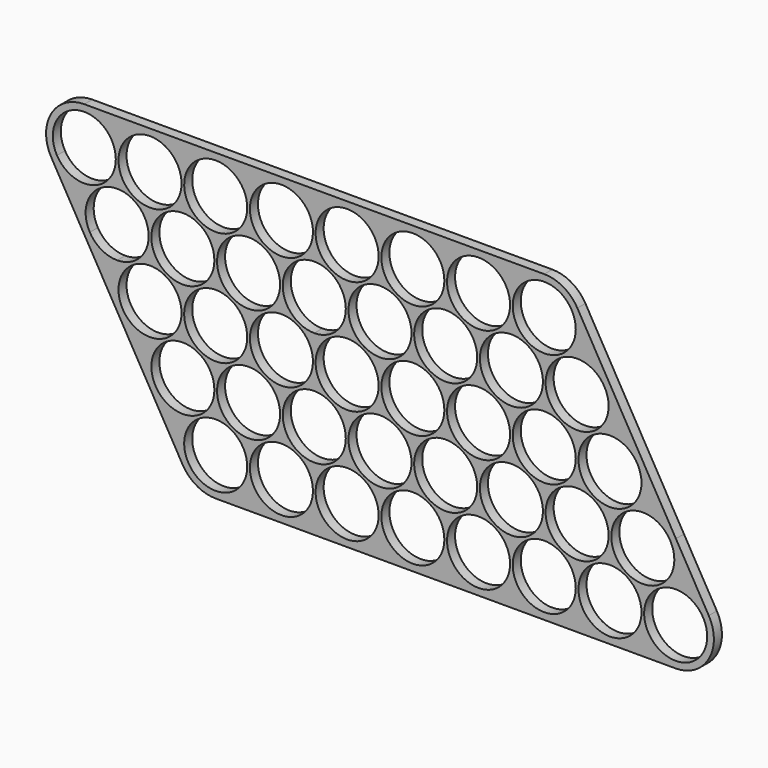
from build123d import *

# Parameters (mm, degrees)
F0_R     = 9.4
F1_DEPTH = 3


with BuildPart() as f1:
    # F0 (on Front) → F1 (new body)
    with BuildSketch(Plane.XZ):
        with BuildLine():
            Line((58.8, 11.4), (0, 11.4))
            ThreePointArc((0, 11.4), (-9.870808, 5.703258), (-9.87645, -5.693483))
            Line((-9.87645, -5.693483), (-0.07645, -22.693483))
            Line((-0.07645, -22.693483), (19.523115, -56.692727))
            Line((19.523115, -56.692727), (29.322897, -73.692349))
            ThreePointArc((29.322897, -73.692349), (33.496089, -77.869674), (39.199347, -79.398866))
            Line((39.199347, -79.398866), (176.399347, -79.398866))
            ThreePointArc((176.399347, -79.398866), (186.270155, -73.702124), (186.275796, -62.305384))
            Line((186.275796, -62.305384), (176.476014, -45.305762))
            Line((176.476014, -45.305762), (147.07645, 5.693483))
            ThreePointArc((147.07645, 5.693483), (142.903258, 9.870808), (137.2, 11.4))
            Line((137.2, 11.4), (98, 11.4))
            Line((98, 11.4), (58.8, 11.4))
        make_face()
        with Locations((39.199347, -67.998866)):
            Circle(F0_R, mode=Mode.SUBTRACT)
        with Locations((58.799347, -67.998866)):
            Circle(F0_R, mode=Mode.SUBTRACT)
        with Locations((78.399347, -67.998866)):
            Circle(F0_R, mode=Mode.SUBTRACT)
        with Locations((29.399564, -50.999244)):
            Circle(F0_R, mode=Mode.SUBTRACT)
        with Locations((19.599782, -33.999622)):
            Circle(F0_R, mode=Mode.SUBTRACT)
        with Locations((48.999564, -50.999244)):
            Circle(F0_R, mode=Mode.SUBTRACT)
        with Locations((68.599564, -50.999244)):
            Circle(F0_R, mode=Mode.SUBTRACT)
        with Locations((88.199564, -50.999244)):
            Circle(F0_R, mode=Mode.SUBTRACT)
        with Locations((39.199782, -33.999622)):
            Circle(F0_R, mode=Mode.SUBTRACT)
        with Locations((58.799782, -33.999622)):
            Circle(F0_R, mode=Mode.SUBTRACT)
        with Locations((78.399782, -33.999622)):
            Circle(F0_R, mode=Mode.SUBTRACT)
        with Locations((97.999347, -67.998866)):
            Circle(F0_R, mode=Mode.SUBTRACT)
        with Locations((117.599347, -67.998866)):
            Circle(F0_R, mode=Mode.SUBTRACT)
        with Locations((137.199347, -67.998866)):
            Circle(F0_R, mode=Mode.SUBTRACT)
        with Locations((156.799347, -67.998866)):
            Circle(F0_R, mode=Mode.SUBTRACT)
        with Locations((176.399347, -67.998866)):
            Circle(F0_R, mode=Mode.SUBTRACT)
        with Locations((107.799564, -50.999244)):
            Circle(F0_R, mode=Mode.SUBTRACT)
        with Locations((127.399564, -50.999244)):
            Circle(F0_R, mode=Mode.SUBTRACT)
        with Locations((97.999782, -33.999622)):
            Circle(F0_R, mode=Mode.SUBTRACT)
        with Locations((117.599782, -33.999622)):
            Circle(F0_R, mode=Mode.SUBTRACT)
        with Locations((137.199782, -33.999622)):
            Circle(F0_R, mode=Mode.SUBTRACT)
        with Locations((146.999564, -50.999244)):
            Circle(F0_R, mode=Mode.SUBTRACT)
        with Locations((166.599564, -50.999244)):
            Circle(F0_R, mode=Mode.SUBTRACT)
        with Locations((156.799782, -33.999622)):
            Circle(F0_R, mode=Mode.SUBTRACT)
        with BuildLine():
            ThreePointArc((9.8, -26.4), (5.097314, -25.139087), (1.656261, -21.694626))
            ThreePointArc((1.656261, -21.694626), (7.370097, -7.919495), (19.2, -17))
            ThreePointArc((19.2, -17), (16.446804, -23.646804), (9.8, -26.4))
        make_face(mode=Mode.SUBTRACT)
        with Locations((29.4, -17)):
            Circle(F0_R, mode=Mode.SUBTRACT)
        with Locations((49, -17)):
            Circle(F0_R, mode=Mode.SUBTRACT)
        with BuildLine():
            ThreePointArc((76.743739, -12.305374), (77.680505, -14.570097), (78, -17))
            ThreePointArc((78, -17), (75.246804, -23.646804), (68.6, -26.4))
            ThreePointArc((68.6, -26.4), (60.460913, -12.297314), (76.743739, -12.305374))
        make_face(mode=Mode.SUBTRACT)
        with BuildLine():
            ThreePointArc((0, 9.4), (6.646804, 6.646804), (9.4, 0))
            ThreePointArc((9.4, 0), (2.429903, -9.080505), (-8.143739, -4.694626))
            ThreePointArc((-8.143739, -4.694626), (-8.139087, 4.702686), (0, 9.4))
        make_face(mode=Mode.SUBTRACT)
        with BuildLine():
            ThreePointArc((29, 0), (12.953196, -6.646804), (19.6, 9.4))
            ThreePointArc((19.6, 9.4), (26.246804, 6.646804), (29, 0))
        make_face(mode=Mode.SUBTRACT)
        with BuildLine():
            ThreePointArc((48.6, 0), (32.553196, -6.646804), (39.2, 9.4))
            ThreePointArc((39.2, 9.4), (45.846804, 6.646804), (48.6, 0))
        make_face(mode=Mode.SUBTRACT)
        with BuildLine():
            ThreePointArc((68.2, 0), (52.153196, -6.646804), (58.8, 9.4))
            ThreePointArc((58.8, 9.4), (63.502686, 8.139087), (66.943739, 4.694626))
            ThreePointArc((66.943739, 4.694626), (67.880505, 2.429903), (68.2, 0))
        make_face(mode=Mode.SUBTRACT)
        with Locations((78.4, 0)):
            Circle(F0_R, mode=Mode.SUBTRACT)
        with Locations((88.2, -17)):
            Circle(F0_R, mode=Mode.SUBTRACT)
        with Locations((107.8, -17)):
            Circle(F0_R, mode=Mode.SUBTRACT)
        with Locations((127.4, -17)):
            Circle(F0_R, mode=Mode.SUBTRACT)
        with Locations((147, -17)):
            Circle(F0_R, mode=Mode.SUBTRACT)
        with Locations((98, 0)):
            Circle(F0_R, mode=Mode.SUBTRACT)
        with Locations((117.6, 0)):
            Circle(F0_R, mode=Mode.SUBTRACT)
        with Locations((137.2, 0)):
            Circle(F0_R, mode=Mode.SUBTRACT)
        with BuildLine():
            Line((58.8, 11.4), (0, 11.4))
            ThreePointArc((0, 11.4), (-9.870808, 5.703258), (-9.87645, -5.693483))
            Line((-9.87645, -5.693483), (-0.07645, -22.693483))
            Line((-0.07645, -22.693483), (19.523115, -56.692727))
            Line((19.523115, -56.692727), (29.322897, -73.692349))
            ThreePointArc((29.322897, -73.692349), (33.496089, -77.869674), (39.199347, -79.398866))
            Line((39.199347, -79.398866), (176.399347, -79.398866))
            ThreePointArc((176.399347, -79.398866), (186.270155, -73.702124), (186.275796, -62.305384))
            Line((186.275796, -62.305384), (176.476014, -45.305762))
            Line((176.476014, -45.305762), (147.07645, 5.693483))
            ThreePointArc((147.07645, 5.693483), (142.903258, 9.870808), (137.2, 11.4))
            Line((137.2, 11.4), (98, 11.4))
            Line((98, 11.4), (58.8, 11.4))
        make_face()
        with Locations((39.199347, -67.998866)):
            Circle(F0_R, mode=Mode.SUBTRACT)
        with Locations((58.799347, -67.998866)):
            Circle(F0_R, mode=Mode.SUBTRACT)
        with Locations((78.399347, -67.998866)):
            Circle(F0_R, mode=Mode.SUBTRACT)
        with Locations((29.399564, -50.999244)):
            Circle(F0_R, mode=Mode.SUBTRACT)
        with Locations((19.599782, -33.999622)):
            Circle(F0_R, mode=Mode.SUBTRACT)
        with Locations((48.999564, -50.999244)):
            Circle(F0_R, mode=Mode.SUBTRACT)
        with Locations((68.599564, -50.999244)):
            Circle(F0_R, mode=Mode.SUBTRACT)
        with Locations((88.199564, -50.999244)):
            Circle(F0_R, mode=Mode.SUBTRACT)
        with Locations((39.199782, -33.999622)):
            Circle(F0_R, mode=Mode.SUBTRACT)
        with Locations((58.799782, -33.999622)):
            Circle(F0_R, mode=Mode.SUBTRACT)
        with Locations((78.399782, -33.999622)):
            Circle(F0_R, mode=Mode.SUBTRACT)
        with Locations((97.999347, -67.998866)):
            Circle(F0_R, mode=Mode.SUBTRACT)
        with Locations((117.599347, -67.998866)):
            Circle(F0_R, mode=Mode.SUBTRACT)
        with Locations((137.199347, -67.998866)):
            Circle(F0_R, mode=Mode.SUBTRACT)
        with Locations((156.799347, -67.998866)):
            Circle(F0_R, mode=Mode.SUBTRACT)
        with Locations((176.399347, -67.998866)):
            Circle(F0_R, mode=Mode.SUBTRACT)
        with Locations((107.799564, -50.999244)):
            Circle(F0_R, mode=Mode.SUBTRACT)
        with Locations((127.399564, -50.999244)):
            Circle(F0_R, mode=Mode.SUBTRACT)
        with Locations((97.999782, -33.999622)):
            Circle(F0_R, mode=Mode.SUBTRACT)
        with Locations((117.599782, -33.999622)):
            Circle(F0_R, mode=Mode.SUBTRACT)
        with Locations((137.199782, -33.999622)):
            Circle(F0_R, mode=Mode.SUBTRACT)
        with Locations((146.999564, -50.999244)):
            Circle(F0_R, mode=Mode.SUBTRACT)
        with Locations((166.599564, -50.999244)):
            Circle(F0_R, mode=Mode.SUBTRACT)
        with Locations((156.799782, -33.999622)):
            Circle(F0_R, mode=Mode.SUBTRACT)
        with BuildLine():
            ThreePointArc((9.8, -26.4), (5.097314, -25.139087), (1.656261, -21.694626))
            ThreePointArc((1.656261, -21.694626), (7.370097, -7.919495), (19.2, -17))
            ThreePointArc((19.2, -17), (16.446804, -23.646804), (9.8, -26.4))
        make_face(mode=Mode.SUBTRACT)
        with Locations((29.4, -17)):
            Circle(F0_R, mode=Mode.SUBTRACT)
        with Locations((49, -17)):
            Circle(F0_R, mode=Mode.SUBTRACT)
        with BuildLine():
            ThreePointArc((76.743739, -12.305374), (77.680505, -14.570097), (78, -17))
            ThreePointArc((78, -17), (75.246804, -23.646804), (68.6, -26.4))
            ThreePointArc((68.6, -26.4), (60.460913, -12.297314), (76.743739, -12.305374))
        make_face(mode=Mode.SUBTRACT)
        with BuildLine():
            ThreePointArc((0, 9.4), (6.646804, 6.646804), (9.4, 0))
            ThreePointArc((9.4, 0), (2.429903, -9.080505), (-8.143739, -4.694626))
            ThreePointArc((-8.143739, -4.694626), (-8.139087, 4.702686), (0, 9.4))
        make_face(mode=Mode.SUBTRACT)
        with BuildLine():
            ThreePointArc((29, 0), (12.953196, -6.646804), (19.6, 9.4))
            ThreePointArc((19.6, 9.4), (26.246804, 6.646804), (29, 0))
        make_face(mode=Mode.SUBTRACT)
        with BuildLine():
            ThreePointArc((48.6, 0), (32.553196, -6.646804), (39.2, 9.4))
            ThreePointArc((39.2, 9.4), (45.846804, 6.646804), (48.6, 0))
        make_face(mode=Mode.SUBTRACT)
        with BuildLine():
            ThreePointArc((68.2, 0), (52.153196, -6.646804), (58.8, 9.4))
            ThreePointArc((58.8, 9.4), (63.502686, 8.139087), (66.943739, 4.694626))
            ThreePointArc((66.943739, 4.694626), (67.880505, 2.429903), (68.2, 0))
        make_face(mode=Mode.SUBTRACT)
        with Locations((78.4, 0)):
            Circle(F0_R, mode=Mode.SUBTRACT)
        with Locations((88.2, -17)):
            Circle(F0_R, mode=Mode.SUBTRACT)
        with Locations((107.8, -17)):
            Circle(F0_R, mode=Mode.SUBTRACT)
        with Locations((127.4, -17)):
            Circle(F0_R, mode=Mode.SUBTRACT)
        with Locations((147, -17)):
            Circle(F0_R, mode=Mode.SUBTRACT)
        with Locations((98, 0)):
            Circle(F0_R, mode=Mode.SUBTRACT)
        with Locations((117.6, 0)):
            Circle(F0_R, mode=Mode.SUBTRACT)
        with Locations((137.2, 0)):
            Circle(F0_R, mode=Mode.SUBTRACT)
    extrude(amount=F1_DEPTH)


solid = f1.part
